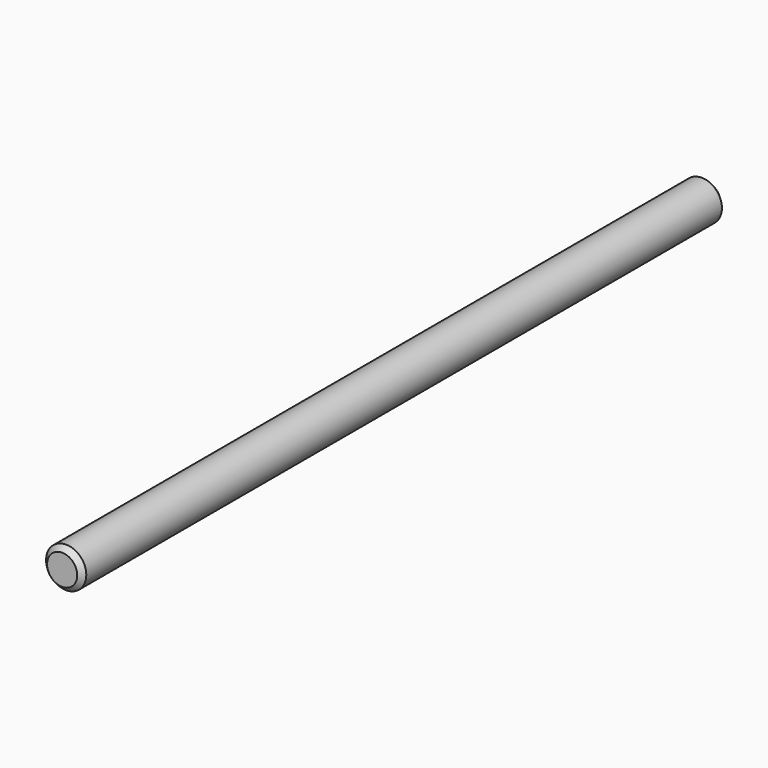
from build123d import *

# Parameters (mm, degrees)
SKETCH_R  = 2.5
PAD_DEPTH = 50


with BuildPart() as part:
    # Sketch → Pad (new body, symmetric)
    with BuildSketch(Plane.XZ):
        Circle(SKETCH_R)
    extrude(amount=PAD_DEPTH, both=True)

    # Sketch001 → Groove (revolve, cut)
    with BuildSketch(Plane.YZ):
        Polygon((-50, 4.5), (50, 4.5), (50, 1.875), (49.375, 2.5), (-49.375, 2.5), (-50, 1.875), align=None)
    revolve(axis=Axis((0, 0, 0), (0, 1, 0)), mode=Mode.SUBTRACT)


solid = part.part
